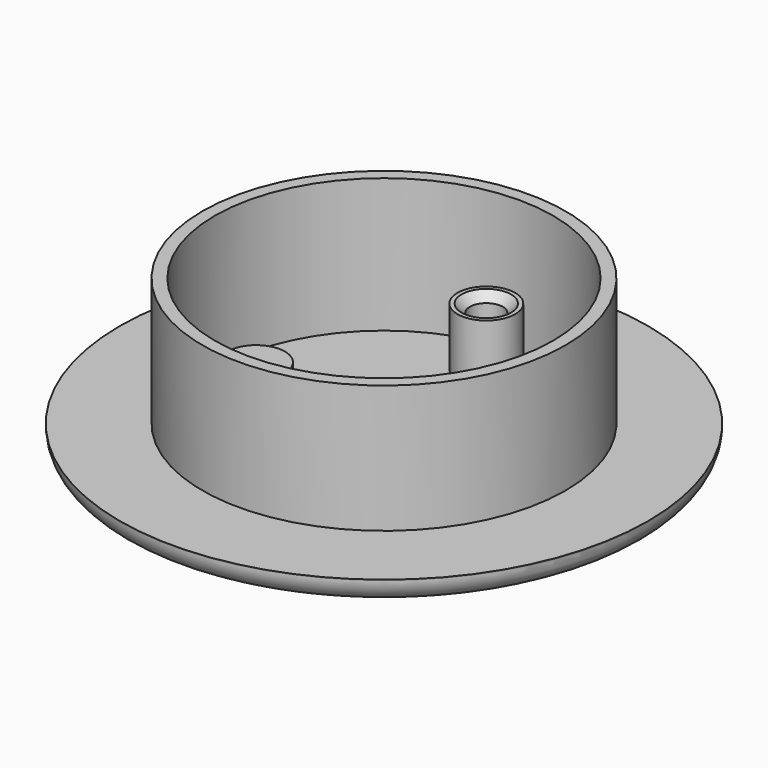
from build123d import *

# Parameters (mm, degrees)
SKETCH_R      = 20
PAD_DEPTH     = 2.5
SKETCH001_R   = 3.5
PAD001_DEPTH  = 2
SKETCH002_R   = 3.5
SKETCH002_R_2 = 2
SKETCH002_R_3 = 1.85
PAD002_DEPTH  = 7
CHAMFER_SIZE  = 1
SKETCH003_R   = 32
PAD003_DEPTH  = 3
SKETCH004_R   = 20.5
POCKET_DEPTH  = 2
FILLET_R      = 2.9
SKETCH005_R   = 22
SKETCH005_R_2 = 20.5
PAD004_DEPTH  = 15.5


with BuildPart() as body:
    # Sketch → Pad (new body)
    with BuildSketch(Plane.XY):
        Circle(SKETCH_R)
    extrude(amount=PAD_DEPTH)

    # Sketch001 (on Face3 of Pad) → Pad001 (join)
    with BuildSketch(Plane.XY.offset(2.5)):
        with Locations((-15.5, 0)):
            Circle(SKETCH001_R)
        with Locations((15.5, 0)):
            Circle(SKETCH001_R)
    extrude(amount=PAD001_DEPTH)

    # Sketch002 (on Face3 of Pad001) → Pad002 (join)
    with BuildSketch(Plane.XY.offset(2.5)):
        with Locations((0, 15.5)):
            Circle(SKETCH002_R)
        with Locations((0, 15.5)):
            Circle(SKETCH002_R_2, mode=Mode.SUBTRACT)
        with Locations((0, -15.5)):
            Circle(SKETCH002_R_3)
    extrude(amount=PAD002_DEPTH)

    # Chamfer
    chamfer_edges = [body.edges().sort_by_distance(p)[0] for p in [
        (-1.85, -15.5, 9.5),
        (-2, 15.5, 9.5),
    ]]
    chamfer(chamfer_edges, length=CHAMFER_SIZE)


with BuildPart() as body001:
    # Sketch003 → Pad003 (new body)
    with BuildSketch(Plane.XY):
        Circle(SKETCH003_R)
    extrude(amount=PAD003_DEPTH)

    # Sketch004 (on Face3 of Pad003) → Pocket (cut)
    with BuildSketch(Plane.XY.offset(3)):
        Circle(SKETCH004_R)
    extrude(amount=-POCKET_DEPTH, mode=Mode.SUBTRACT)

    # Fillet
    fillet_edges = [body001.edges().sort_by_distance(p)[0] for p in [
        (-32, 0, 0),
    ]]
    fillet(fillet_edges, radius=FILLET_R)

    # Sketch005 (on Face3 of Fillet) → Pad004 (join)
    with BuildSketch(Plane.XY.offset(3)):
        Circle(SKETCH005_R)
        Circle(SKETCH005_R_2, mode=Mode.SUBTRACT)
    extrude(amount=PAD004_DEPTH)


solid = Compound([body.part, body001.part])
